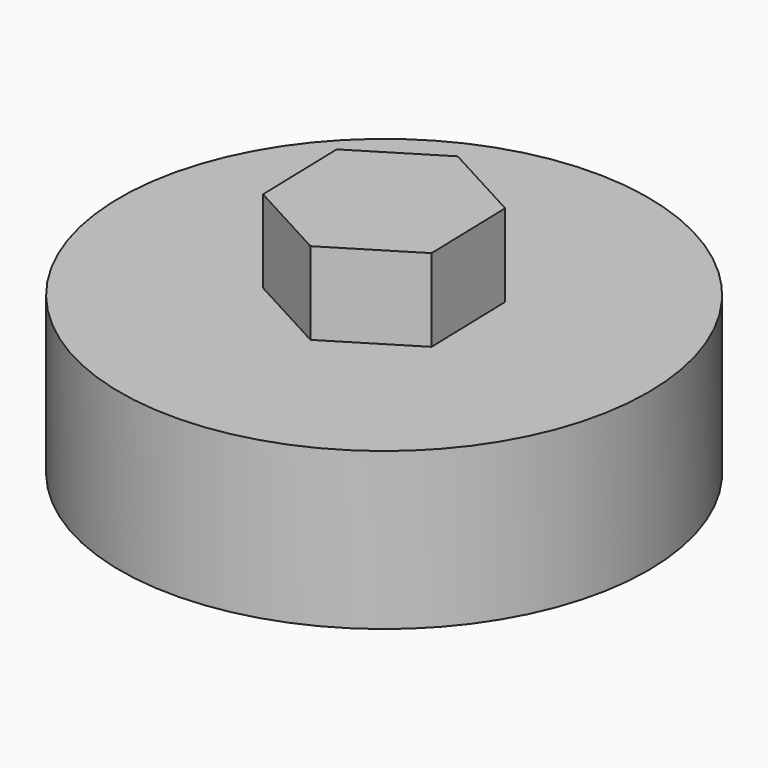
from build123d import *

# Parameters (mm, degrees)
F0_R     = 40.64
F1_DEPTH = 17.78
F2_R     = 40.64
F3_DEPTH = 6.35
F5_DEPTH = 12.7


with BuildPart() as f1:
    # F0 (on Top) → F1 (new body)
    with BuildSketch(Plane.XY):
        Circle(F0_R)
        Polygon((7.391665, -32.385), (-7.391665, -32.385), (-20.710985, -25.970754), (-29.92824, -14.412681), (-33.217841, 0), (-29.92824, 14.412681), (-20.710985, 25.970754), (-7.391665, 32.385), (7.391665, 32.385), (20.710985, 25.970754), (29.92824, 14.412681), (33.217841, 0), (29.92824, -14.412681), (20.710985, -25.970754), align=None, mode=Mode.SUBTRACT)
    extrude(amount=F1_DEPTH)

    # F2 (on face) → F3 (join)
    with BuildSketch(Plane.XY.offset(17.78)):
        Circle(F2_R)
    extrude(amount=F3_DEPTH)

    # F4 (on face) → F5 (join)
    with BuildSketch(Plane.XY.offset(24.13)):
        Polygon((12.497005, 7.673213), (-0.396695, 14.65933), (-12.8937, 6.986117), (-12.497005, -7.673213), (0.396695, -14.65933), (12.8937, -6.986117), align=None)
    extrude(amount=F5_DEPTH)


solid = f1.part
